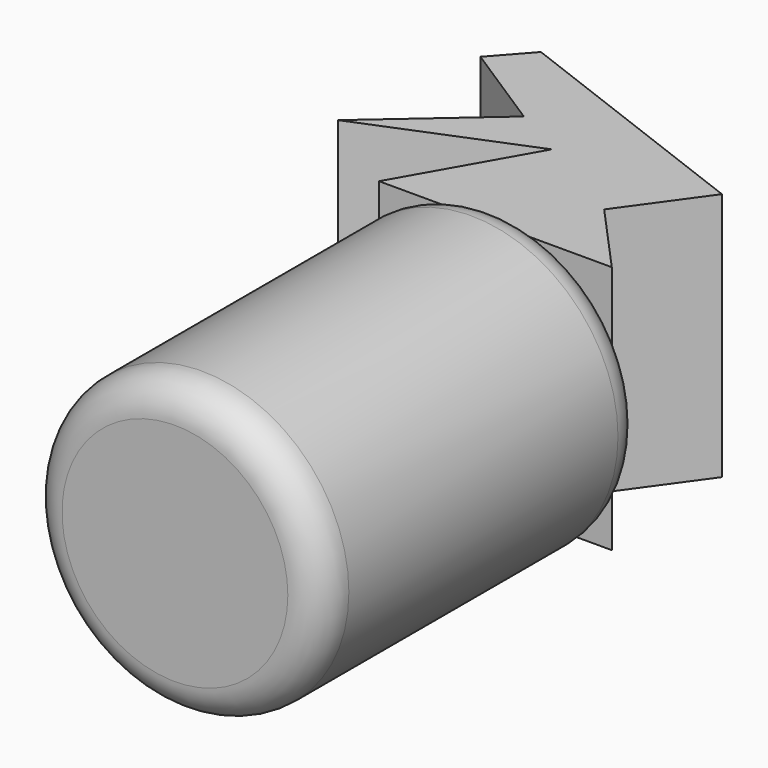
from build123d import *

# Parameters (mm, degrees)
F0_R     = 21.993212
F1_DEPTH = 60.56268
F2_R     = 5.08
F4_DEPTH = 18.65978


with BuildPart() as f1:
    # F0 (on Front) → F1 (new body)
    with BuildSketch(Plane.XZ):
        Circle(F0_R)
    extrude(amount=F1_DEPTH)

    # F2
    f2_edges = [f1.edges().sort_by_distance(p)[0] for p in [
        (21.993212, -30.28134, 0),
        (-21.993212, 0, 0),
        (-21.993212, -60.56268, 0),
    ]]
    fillet(f2_edges, radius=F2_R)

    # F3 (on Top) → F4 (join, symmetric)
    with BuildSketch(Plane.XY):
        Polygon((-17.87933, 0), (16.99487, 0), (7.151732, 10.876591), (15.49542, 22.498155), (-23.541117, 37.397597), (-28.308937, 32.033801), (-14.899442, 23.392122), (-31.288829, 9.08866), (-7.151735, 18.922292), align=None)
    extrude(amount=F4_DEPTH, both=True)


solid = f1.part
